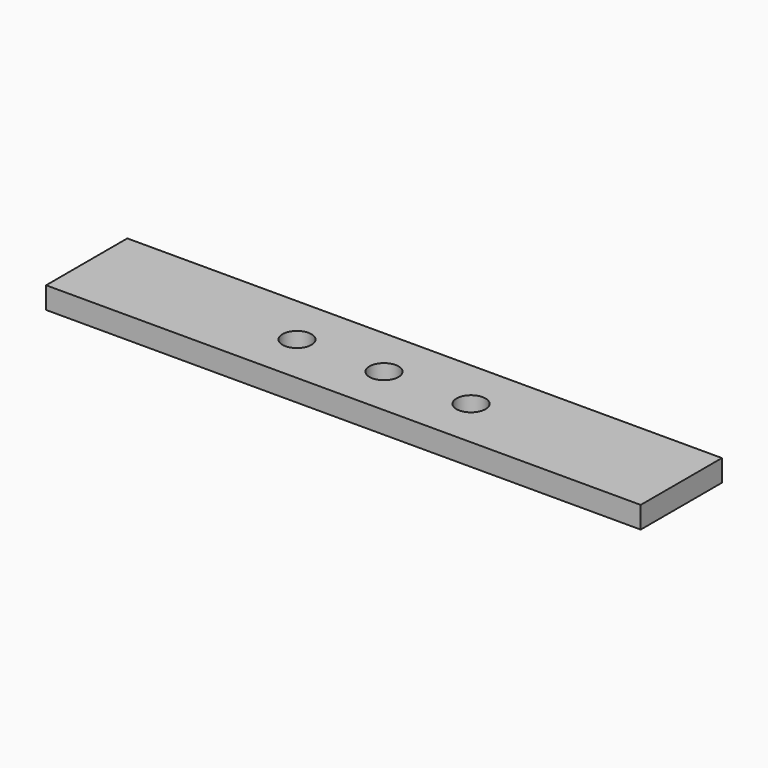
from build123d import *

# Parameters (mm, degrees)
F0_W     = 520.7
F0_H     = 88.9
F0_R     = 12.7
F1_DEPTH = 19.05


with BuildPart() as f1:
    # F0 (on Top) → F1 (new body)
    with BuildSketch(Plane.XY):
        with Locations((-4319.57273, -2576.789449)):
            Rectangle(F0_W, F0_H)
        with Locations((-4395.77273, -2576.789449)):
            Circle(F0_R, mode=Mode.SUBTRACT)
        with Locations((-4319.57273, -2576.789449)):
            Circle(F0_R, mode=Mode.SUBTRACT)
        with Locations((-4243.37273, -2576.789449)):
            Circle(F0_R, mode=Mode.SUBTRACT)
    extrude(amount=F1_DEPTH)


solid = f1.part
